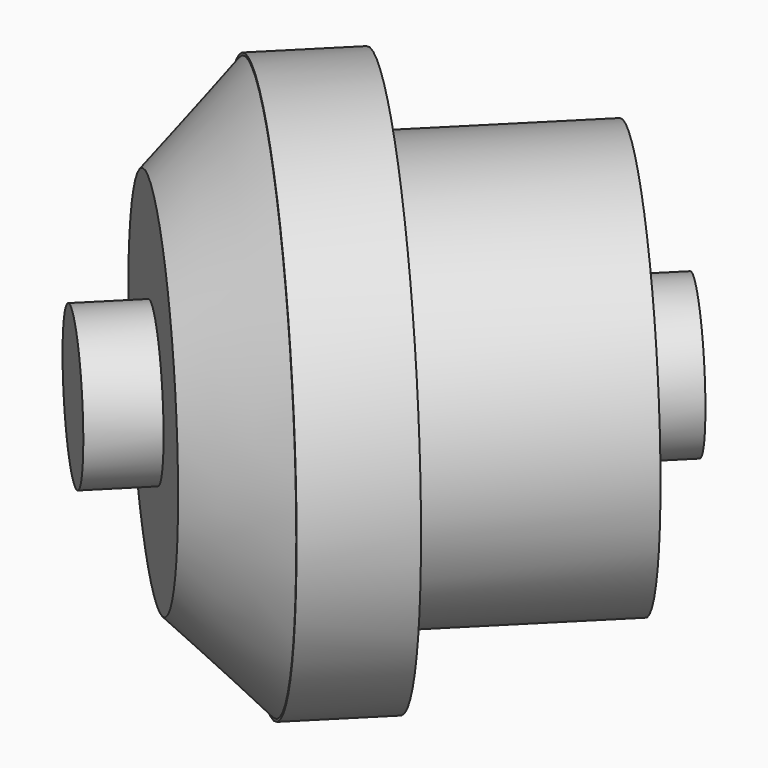
from build123d import *

# Parameters (mm, degrees)
CYLINDER081016_R                               = 1.5
CYLINDER081016_DEPTH                           = 10
CYLINDER081017_R                               = 4
CYLINDER081017_DEPTH                           = 4
CYLINDER081018_R                               = 5.355
CYLINDER081018_DEPTH                           = 2
FUSION103077013004017008011030_PLACEMENT_ANGLE = 45


with BuildPart() as cylinder081013:
    # Cylinder081016 → Cylinder081016 (new body)
    with BuildSketch(Plane(origin=(0, 12, 8), x_dir=(1, 0, 0), z_dir=(0, -1, 0))):
        Circle(CYLINDER081016_R)
    extrude(amount=CYLINDER081016_DEPTH)


with BuildPart() as cylinder081014:
    # Cylinder081017 → Cylinder081017 (new body)
    with BuildSketch(Plane(origin=(0, 11, 8), x_dir=(1, 0, 0), z_dir=(0, -1, 0))):
        Circle(CYLINDER081017_R)
    extrude(amount=CYLINDER081017_DEPTH)


with BuildPart() as cylinder081015:
    # Cylinder081018 → Cylinder081018 (new body)
    with BuildSketch(Plane(origin=(0, 7, 8), x_dir=(1, 0, 0), z_dir=(0, -1, 0))):
        Circle(CYLINDER081018_R)
    extrude(amount=CYLINDER081018_DEPTH)


with BuildPart() as commercial_gear:
    # Cone004 → Cone004 (revolve)
    with BuildSketch(Plane(origin=(0, 5, 8), x_dir=(1, 0, 0), z_dir=(0, 0, -1))):
        Polygon((0, 0), (5.31, 0), (3.6, 1.71), (0, 1.71), align=None)
    revolve(axis=Axis((0, 5, 8), (0, -1, 0)))

    # Fusion103077013004017008011030: union Cylinder081013, Cylinder081014, Cylinder081015
    add(cylinder081013.part)
    add(cylinder081014.part)
    add(cylinder081015.part)


with BuildPart() as commercial_gear_1:
    # Fusion103077013004017008011030 placement: moved
    add(commercial_gear.part.rotate(Axis((0, 0, 0), (0, 0, -1)), FUSION103077013004017008011030_PLACEMENT_ANGLE))


solid = commercial_gear_1.part
